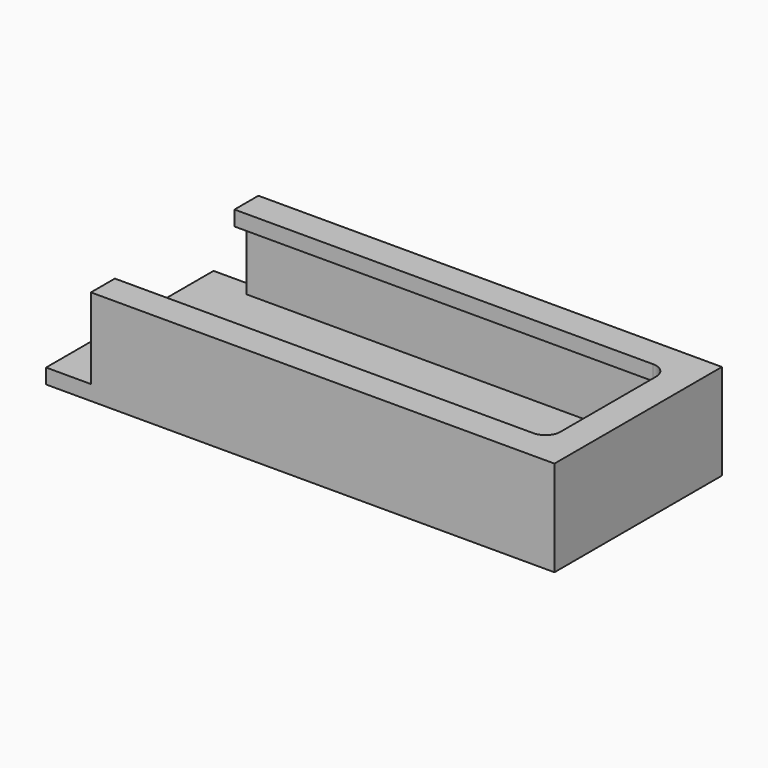
from build123d import *

# Parameters (mm, degrees)
F0_W     = 85
F0_H     = 35
F1_DEPTH = 2.5
F2_DEPTH = 11
F4_DEPTH = 11
F6_DEPTH = 2.5


with BuildPart() as f1:
    # F0 (on Top) → F1 (new body)
    with BuildSketch(Plane.XY):
        Rectangle(F0_W, F0_H)
        with BuildLine():
            ThreePointArc((-40, 10), (-38.5355339059, 13.5355339059), (-35, 15))
            Line((-35, 15), (35, 15))
            ThreePointArc((35, 15), (38.5355339059, 13.5355339059), (40, 10))
            Line((40, 10), (40, -10))
            ThreePointArc((40, -10), (38.5355339059, -13.5355339059), (35, -15))
            Line((35, -15), (-35, -15))
            ThreePointArc((-35, -15), (-38.5355339059, -13.5355339059), (-40, -10))
            Line((-40, -10), (-40, 10))
        make_face(mode=Mode.SUBTRACT)
        with BuildLine():
            Line((35, 15), (-35, 15))
            ThreePointArc((-35, 15), (-38.5355339059, 13.5355339059), (-40, 10))
            Line((-40, 10), (-40, -10))
            ThreePointArc((-40, -10), (-38.5355339059, -13.5355339059), (-35, -15))
            Line((-35, -15), (35, -15))
            ThreePointArc((35, -15), (38.5355339059, -13.5355339059), (40, -10))
            Line((40, -10), (40, 10))
            ThreePointArc((40, 10), (38.5355339059, 13.5355339059), (35, 15))
        make_face()
    extrude(amount=-F1_DEPTH)

    # F0 (on Top) → F2 (join)
    with BuildSketch(Plane.XY):
        Rectangle(F0_W, F0_H)
        with BuildLine():
            ThreePointArc((-40, 10), (-38.5355339059, 13.5355339059), (-35, 15))
            Line((-35, 15), (35, 15))
            ThreePointArc((35, 15), (38.5355339059, 13.5355339059), (40, 10))
            Line((40, 10), (40, -10))
            ThreePointArc((40, -10), (38.5355339059, -13.5355339059), (35, -15))
            Line((35, -15), (-35, -15))
            ThreePointArc((-35, -15), (-38.5355339059, -13.5355339059), (-40, -10))
            Line((-40, -10), (-40, 10))
        make_face(mode=Mode.SUBTRACT)
    extrude(amount=F2_DEPTH)

    # F3 (on face) → F4 (cut, through all)
    with BuildSketch(Plane.XY.offset(11)):
        with BuildLine():
            Line((-35, 15), (-35, 17.5))
            Line((-35, 17.5), (-42.5, 17.5))
            Line((-42.5, 17.5), (-42.5, -17.5))
            Line((-42.5, -17.5), (-35, -17.5))
            Line((-35, -17.5), (-35, -15))
            ThreePointArc((-35, -15), (-38.5355339059, -13.5355339059), (-40, -10))
            Line((-40, -10), (-40, 10))
            ThreePointArc((-40, 10), (-38.5355339059, 13.5355339059), (-35, 15))
        make_face()
    extrude(amount=-F4_DEPTH, mode=Mode.SUBTRACT)

    # F5 (on face) → F6 (join)
    with BuildSketch(Plane.XY.offset(11)):
        with BuildLine():
            Line((-35, 12.4999995357), (35, 12.4999995357))
            ThreePointArc((35, 12.4999995357), (36.7677666247, 11.7677666247), (37.4999995357, 10))
            Line((37.4999995357, 10), (37.4999995357, -10))
            ThreePointArc((37.4999995357, -10), (36.7677666247, -11.7677666247), (35, -12.4999995357))
            Line((35, -12.4999995357), (-35, -12.4999995357))
            Line((-35, -12.4999995357), (-35, -15))
            Line((-35, -15), (35, -15))
            ThreePointArc((35, -15), (38.5355339059, -13.5355339059), (40, -10))
            Line((40, -10), (40, 10))
            ThreePointArc((40, 10), (38.5355339059, 13.5355339059), (35, 15))
            Line((35, 15), (-35, 15))
            Line((-35, 15), (-35, 12.4999995357))
        make_face()
        with BuildLine():
            Line((-35, 17.5), (-35, 15))
            Line((-35, 15), (35, 15))
            ThreePointArc((35, 15), (38.5355339059, 13.5355339059), (40, 10))
            Line((40, 10), (40, -10))
            ThreePointArc((40, -10), (38.5355339059, -13.5355339059), (35, -15))
            Line((35, -15), (-35, -15))
            Line((-35, -15), (-35, -17.5))
            Line((-35, -17.5), (42.5, -17.5))
            Line((42.5, -17.5), (42.5, 17.5))
            Line((42.5, 17.5), (-35, 17.5))
        make_face()
    extrude(amount=F6_DEPTH)


solid = f1.part
